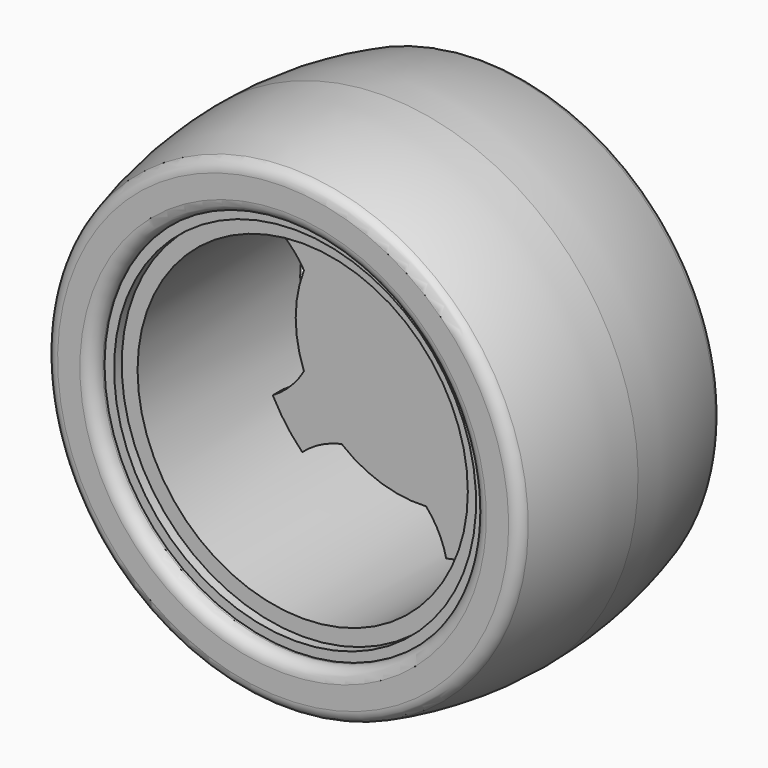
from build123d import *

# Parameters (mm, degrees)
PAD_DEPTH = 2


with BuildPart() as part:
    # Sketch → Revolution (revolve)
    with BuildSketch(Plane.YZ):
        with BuildLine():
            Line((16, 28.5), (16, 26))
            Line((16, 26), (-16, 26))
            Line((-16, 26), (-16, 28.5))
            Line((-16, 28.5), (-17.5, 28.5))
            Line((-17.5, 28.5), (-17.5, 30))
            Line((-17.5, 30), (-17.85, 30))
            ThreePointArc((-19.85, 32), (-19.264214, 30.585786), (-17.85, 30))
            Line((-19.85, 32), (-19.85, 35.507798))
            ThreePointArc((-18.397798, 37.431315), (-19.446182, 36.712872), (-19.85, 35.507798))
            ThreePointArc((0, 40), (-9.288126, 39.354729), (-18.397798, 37.431315))
            ThreePointArc((18.397798, 37.431315), (9.288126, 39.354729), (0, 40))
            ThreePointArc((19.85, 35.507798), (19.446182, 36.712872), (18.397798, 37.431315))
            Line((19.85, 35.507798), (19.85, 32))
            ThreePointArc((17.85, 30), (19.264214, 30.585786), (19.85, 32))
            Line((17.85, 30), (17.5, 30))
            Line((17.5, 30), (17.5, 28.5))
            Line((17.5, 28.5), (16, 28.5))
        make_face()
    revolve(axis=Axis((0, 0, 0), (0, 1, 0)))

    # Sketch001 (on DatumPlane) → Pad (new body)
    with BuildSketch(Plane.ZX.offset(7)):
        with BuildLine():
            ThreePointArc((15.146371, -12.28159), (18.545602, -6.025831), (19.472609, 1.033201))
            ThreePointArc((26.1503, 4.290899), (22.588566, 3.11893), (19.472609, 1.033201))
            ThreePointArc((26.1503, 4.290899), (25.202998, 8.18895), (23.678164, 11.899351))
            ThreePointArc((16.360972, 10.609835), (20.107795, 10.753959), (23.678164, 11.899351))
            ThreePointArc((16.360972, 10.609835), (11.461812, 15.775831), (5.034734, 18.838828))
            ThreePointArc((4, 26.196374), (4.013972, 22.446806), (5.034734, 18.838828))
            ThreePointArc((4, 26.196374), (0, 26.5), (-4, 26.196374))
            ThreePointArc((-5.034734, 18.838828), (-4.013972, 22.446806), (-4, 26.196374))
            ThreePointArc((-5.034734, 18.838828), (-11.461812, 15.775831), (-16.360972, 10.609835))
            ThreePointArc((-23.678164, 11.899351), (-20.107795, 10.753959), (-16.360972, 10.609835))
            ThreePointArc((-23.678164, 11.899351), (-25.202998, 8.18895), (-26.1503, 4.290899))
            ThreePointArc((-19.472609, 1.033201), (-22.588566, 3.11893), (-26.1503, 4.290899))
            ThreePointArc((-19.472609, 1.033201), (-18.545602, -6.025831), (-15.146371, -12.28159))
            ThreePointArc((-18.63391, -18.842171), (-16.441273, -15.800494), (-15.146371, -12.28159))
            ThreePointArc((-18.63391, -18.842171), (-15.576309, -21.43895), (-12.161774, -23.544453))
            ThreePointArc((-7, -18.200275), (-9.94653, -20.519201), (-12.161774, -23.544453))
            ThreePointArc((-7, -18.200275), (0, -19.5), (7, -18.200275))
            ThreePointArc((12.161774, -23.544453), (9.94653, -20.519201), (7, -18.200275))
            ThreePointArc((12.161774, -23.544453), (15.576309, -21.43895), (18.63391, -18.842171))
            ThreePointArc((15.146371, -12.28159), (16.441273, -15.800494), (18.63391, -18.842171))
        make_face()
    extrude(amount=PAD_DEPTH)


solid = part.part
